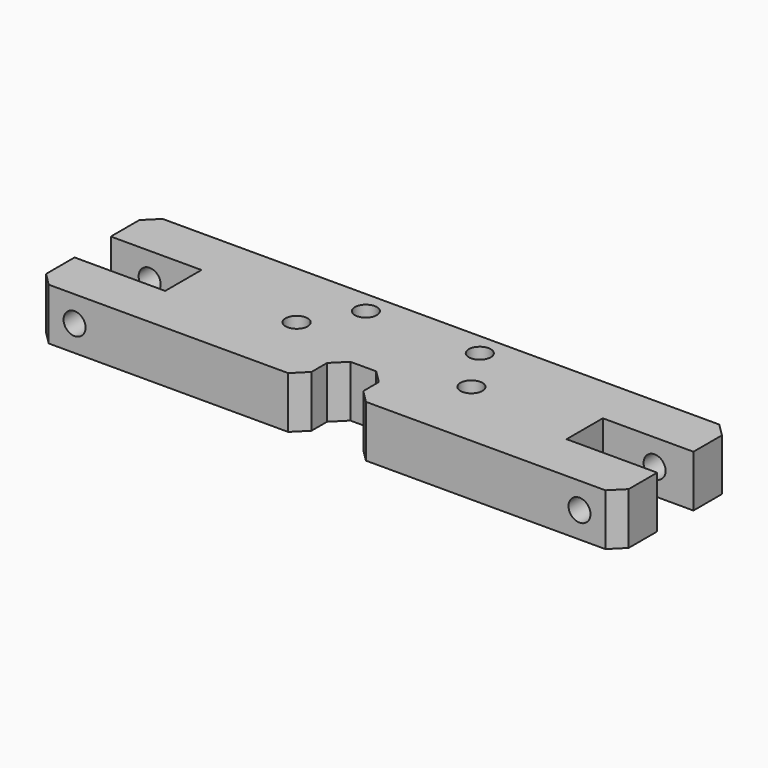
from build123d import *

# Parameters (mm, degrees)
F1_DEPTH       = 8
F3_D           = 3.4
F4_D           = 3.4
F4_CBORE_D     = 6.5
F4_CBORE_DEPTH = 3.2
F6_D           = 3.4
F5_W           = 8
F5_H           = 7
F7_DEPTH       = 8
F8_SIZE        = 2


with BuildPart() as f1:
    # F0 (on Top) → F1 (new body)
    with BuildSketch(Plane.XY):
        Polygon((-45, -11), (45, -11), (45, -3.5), (31, -3.5), (31, 3.5), (45, 3.5), (45, 11), (-45, 11), (-45, 3.5), (-31, 3.5), (-31, -3.5), (-45, -3.5), align=None)
    extrude(amount=F1_DEPTH)

    # F3 (through all)
    with Locations(Plane.XZ.offset(11)):
        with Locations((-39, 4), (39, 4)):
            Hole(F3_D / 2)

    # F4 (through all)
    with Locations(Plane(origin=(0, 0, 0), x_dir=(1, 0, 0), z_dir=(0, 0, -1))):
        with Locations((-13.5, 0), (13.5, 0)):
            CounterBoreHole(F4_D / 2, F4_CBORE_D / 2, F4_CBORE_DEPTH)

    # F6 (through all)
    with Locations(Plane.XY.offset(8)):
        with Locations((-8.8, 7.5), (8.8, 7.5)):
            Hole(F6_D / 2)

    # F5 (on face) → F7 (cut, through all)
    with BuildSketch(Plane.XY.offset(8)):
        with Locations((0, -7.5)):
            Rectangle(F5_W, F5_H)
    extrude(amount=-F7_DEPTH, mode=Mode.SUBTRACT)

    # F8
    f8_edges = [f1.edges().sort_by_distance(p)[0] for p in [
        (-45, -11, 4),
        (45, -11, 4),
        (4, -11, 4),
        (4, -4, 4),
        (-4, -4, 4),
        (-4, -11, 4),
        (45, 11, 4),
        (-45, 11, 4),
    ]]
    chamfer(f8_edges, length=F8_SIZE)


solid = f1.part
